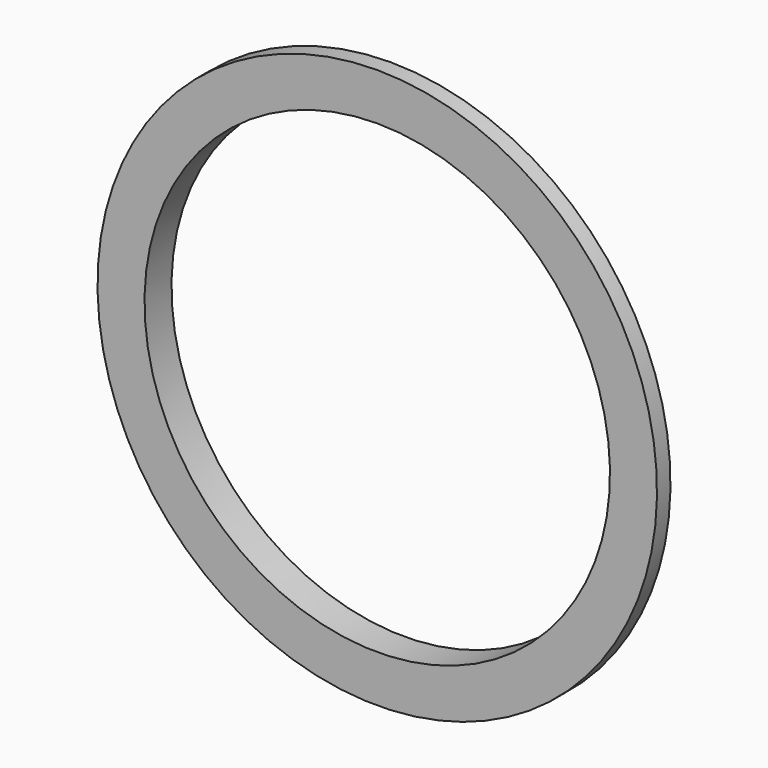
from build123d import *


with BuildPart() as f2:
    # F0 (on Right) → F2 (revolve)
    with BuildSketch(Plane.YZ):
        Polygon((1.5, 24.88), (0, 24.88), (0, 20.7), (3, 20.7), (3, 22.79), align=None)
    revolve(axis=Axis((0, 7.88746, 0), (0, 1, 0)))


solid = f2.part
